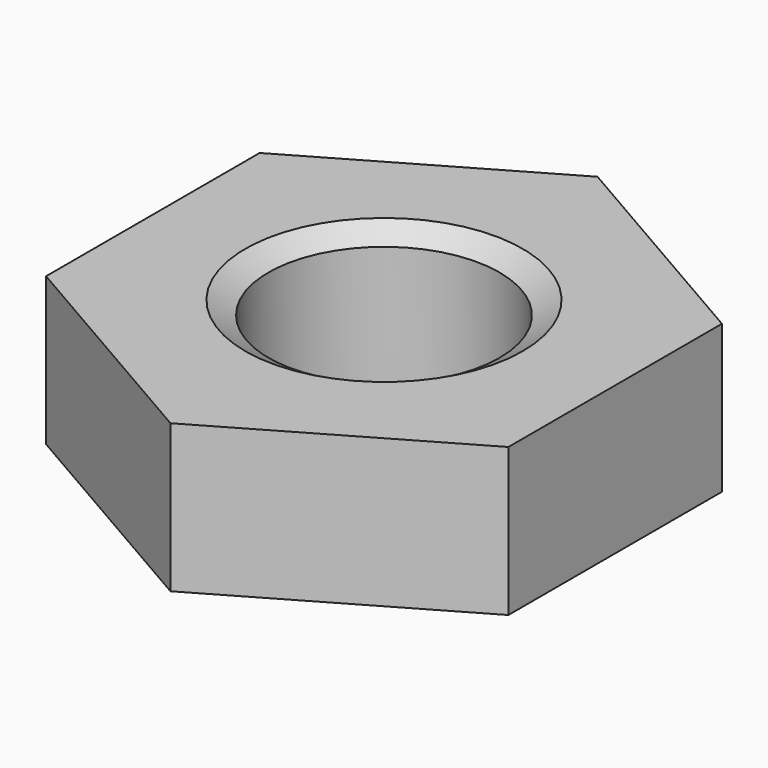
from build123d import *

# Parameters (mm, degrees)
SKETCH001_R  = 7
POCKET_DEPTH = 3.2


with BuildPart() as part:
    # Sketch → Revolution (revolve)
    with BuildSketch(Plane.XZ):
        Polygon((3, 0), (2.5, 0.288675), (2.5, 2.911325), (3, 3.2), (6, 3.2), (6, 0), align=None)
    revolve(axis=Axis((0, 0, 0), (0, 0, 1)))

    # Sketch001 → Pocket (cut)
    with BuildSketch(Plane(origin=(0, 0, 3.2), x_dir=(-1, 0, 0), z_dir=(0, 0, 1))):
        Circle(SKETCH001_R)
        Polygon((-5, 2.886751), (-5, -2.886751), (0, -5.773503), (5, -2.886751), (5, 2.886751), (0, 5.773503), align=None, mode=Mode.SUBTRACT)
    extrude(amount=-POCKET_DEPTH, mode=Mode.SUBTRACT)


solid = part.part
